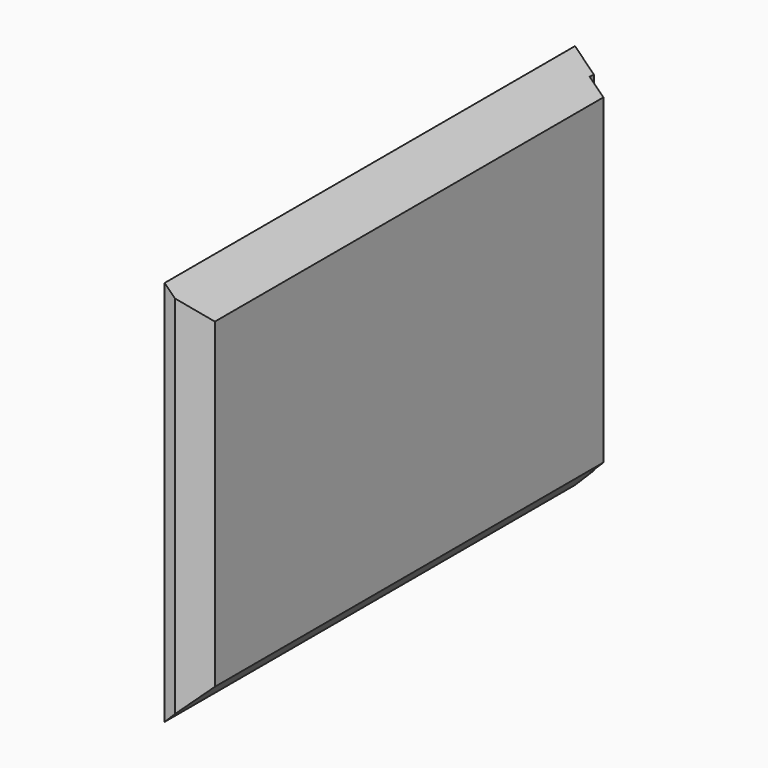
from build123d import *

# Parameters (mm, degrees)
F1_DEPTH = 300
F2_SIZE  = 13
F3_W     = 8
F3_H     = 300
F4_DEPTH = 3


with BuildPart() as f1:
    # F0 (on Front) → F1 (new body)
    with BuildSketch(Plane.XZ):
        Polygon((0, 226), (0, 0), (19, 19), (19, 207), align=None)
    extrude(amount=F1_DEPTH)

    # F2
    f2_edges = [f1.edges().sort_by_distance(p)[0] for p in [
        (19, -300, 113),
    ]]
    chamfer(f2_edges, length=F2_SIZE)

    # F3 (on face) → F4 (cut)
    with BuildSketch(Plane(origin=(0, 0, 0), x_dir=(-1, 0, 0), z_dir=(0, 1, 0))):
        with Locations((-15, 150)):
            Rectangle(F3_W, F3_H)
    extrude(amount=-F4_DEPTH, mode=Mode.SUBTRACT)


solid = f1.part
